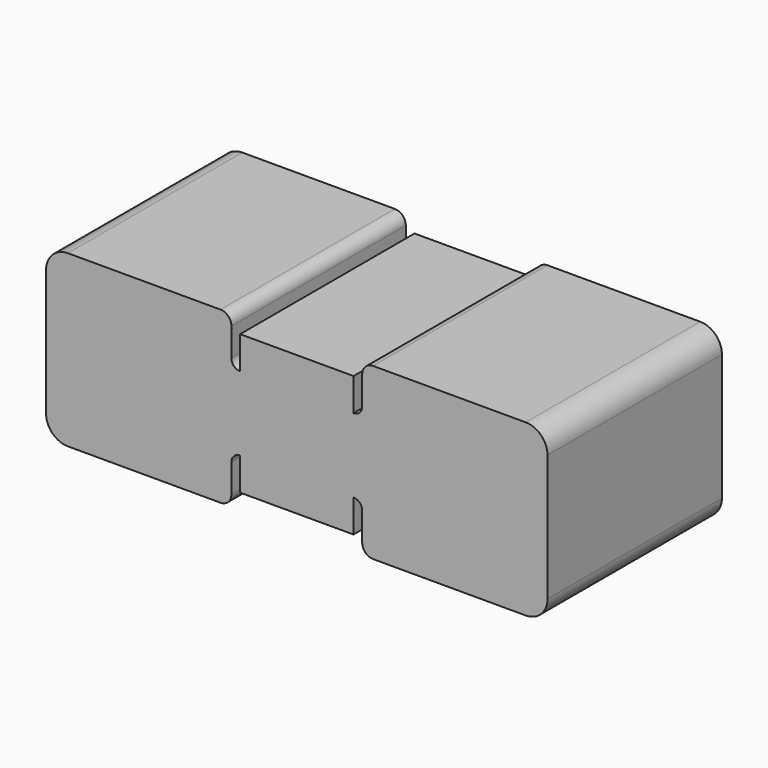
from build123d import *

# Parameters (mm, degrees)
F1_DEPTH = 25.4


with BuildPart() as f1:
    # F0 (on Front) → F1 (new body)
    with BuildSketch(Plane.XZ):
        with BuildLine():
            Line((-29.21, 0), (0, 0))
            Line((0, 0), (0, 8.128))
            Line((0, 8.128), (-6.604, 8.128))
            Line((-6.604, 8.128), (-6.604, 4.318))
            ThreePointArc((-6.604, 4.318), (-7.32242, 4.61558), (-7.62, 5.334))
            Line((-7.62, 5.334), (-7.62, 8.636))
            ThreePointArc((-7.62, 8.636), (-7.991974, 9.534026), (-8.89, 9.906))
            Line((-8.89, 9.906), (-26.67, 9.906))
            ThreePointArc((-26.67, 9.906), (-28.466051, 9.162051), (-29.21, 7.366))
            Line((-29.21, 7.366), (-29.21, 0))
        make_face()
        with BuildLine():
            Line((0, 8.128), (0, 0))
            Line((0, 0), (29.21, 0))
            Line((29.21, 0), (29.21, 7.366))
            ThreePointArc((29.21, 7.366), (28.466051, 9.162051), (26.67, 9.906))
            Line((26.67, 9.906), (8.89, 9.906))
            ThreePointArc((8.89, 9.906), (7.991974, 9.534026), (7.62, 8.636))
            Line((7.62, 8.636), (7.62, 5.334))
            ThreePointArc((7.62, 5.334), (7.32242, 4.61558), (6.604, 4.318))
            Line((6.604, 4.318), (6.604, 8.128))
            Line((6.604, 8.128), (0, 8.128))
        make_face()
        with BuildLine():
            Line((29.21, 0), (0, 0))
            Line((0, 0), (0, -8.128))
            Line((0, -8.128), (6.604, -8.128))
            Line((6.604, -8.128), (6.604, -4.318))
            ThreePointArc((6.604, -4.318), (7.32242, -4.61558), (7.62, -5.334))
            Line((7.62, -5.334), (7.62, -8.636))
            ThreePointArc((7.62, -8.636), (7.991974, -9.534026), (8.89, -9.906))
            Line((8.89, -9.906), (26.67, -9.906))
            ThreePointArc((26.67, -9.906), (28.466051, -9.162051), (29.21, -7.366))
            Line((29.21, -7.366), (29.21, 0))
        make_face()
        with BuildLine():
            Line((0, -8.128), (0, 0))
            Line((0, 0), (-29.21, 0))
            Line((-29.21, 0), (-29.21, -7.366))
            ThreePointArc((-29.21, -7.366), (-28.466051, -9.162051), (-26.67, -9.906))
            Line((-26.67, -9.906), (-8.89, -9.906))
            ThreePointArc((-8.89, -9.906), (-7.991974, -9.534026), (-7.62, -8.636))
            Line((-7.62, -8.636), (-7.62, -5.334))
            ThreePointArc((-7.62, -5.334), (-7.32242, -4.61558), (-6.604, -4.318))
            Line((-6.604, -4.318), (-6.604, -8.128))
            Line((-6.604, -8.128), (0, -8.128))
        make_face()
    extrude(amount=F1_DEPTH)


solid = f1.part
